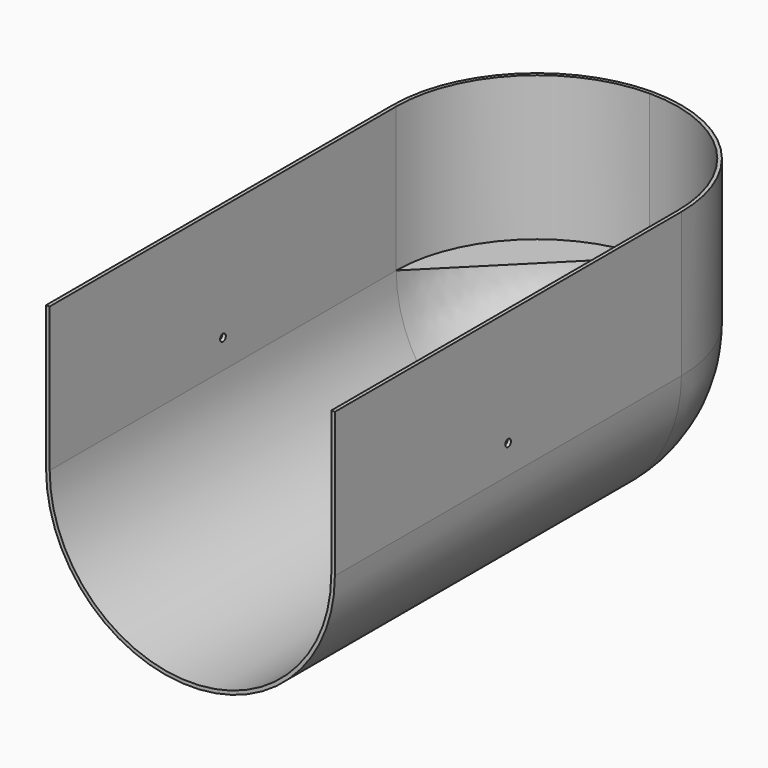
from build123d import *

# Parameters (mm, degrees)
F0_W     = 1.27
F0_H     = 152.4
F1_ANGLE = 180
F2_DEPTH = 50.8
F3_R     = 1.27
F4_DEPTH = 25.4
F5_R     = 1.27
F6_DEPTH = 25.4


with BuildPart() as f1:
    # F0 (on Top) → F1 (revolve)
    with BuildSketch(Plane.XY):
        with Locations((-50.165, 0)):
            Rectangle(F0_W, F0_H)
        with BuildLine():
            Line((-50.8, 76.2), (-49.53, 76.2))
            ThreePointArc((-49.53, 76.2), (-35.022999, 111.222999), (0, 125.73))
            Line((0, 125.73), (0, 127))
            ThreePointArc((0, 127), (-35.921024, 112.121024), (-50.8, 76.2))
        make_face()
        with Locations((-50.165, 0)):
            Rectangle(F0_W, F0_H)
    revolve(axis=Axis((0, 38.1, 0), (0, -1, 0)), revolution_arc=F1_ANGLE)

    # F1_face (on face) → F2 (join)
    with BuildSketch(Plane(origin=(0, 36.856324, 0), x_dir=(1, 0, 0), z_dir=(0, 0, 1))):
        with BuildLine():
            Line((-50.8, 39.343676), (-50.8, -113.056324))
            Line((-50.8, -113.056324), (-49.53, -113.056324))
            Line((-49.53, -113.056324), (-49.53, 39.343676))
            ThreePointArc((-49.53, 39.343676), (-35.022999, 74.366674), (0, 88.873676))
            ThreePointArc((0, 88.873676), (35.022999, 74.366674), (49.53, 39.343676))
            Line((49.53, 39.343676), (49.53, -113.056324))
            Line((49.53, -113.056324), (50.8, -113.056324))
            Line((50.8, -113.056324), (50.8, 39.343676))
            ThreePointArc((50.8, 39.343676), (35.921024, 75.2647), (0, 90.143676))
            ThreePointArc((0, 90.143676), (-35.921024, 75.2647), (-50.8, 39.343676))
        make_face()
    extrude(amount=F2_DEPTH)

    # F3 (on face) → F4 (cut)
    with BuildSketch(Plane(origin=(-50.8, 0, 0), x_dir=(0, -1, 0), z_dir=(-1, 0, 0))):
        with Locations((0, 10.16)):
            Circle(F3_R)
    extrude(amount=-F4_DEPTH, mode=Mode.SUBTRACT)

    # F5 (on face) → F6 (cut)
    with BuildSketch(Plane.YZ.offset(50.8)):
        with Locations((0, 10.16)):
            Circle(F5_R)
        with Locations((0, 10.16)):
            Circle(F5_R)
    extrude(amount=-F6_DEPTH, mode=Mode.SUBTRACT)


solid = f1.part
